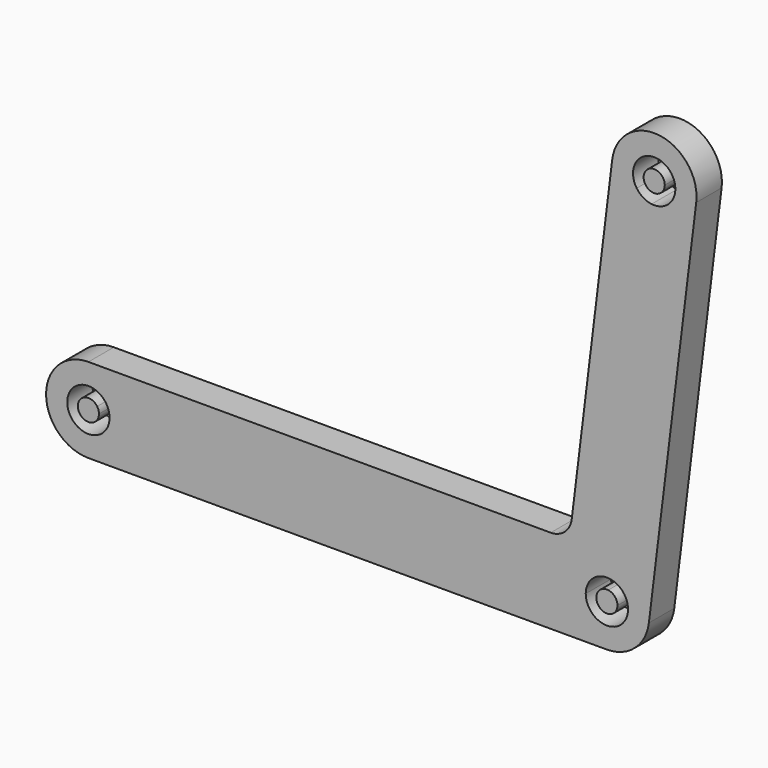
from build123d import *

# Parameters (mm, degrees)
F1_DEPTH = 76.2


with BuildPart() as f1:
    # F0 (on Front) → F1 (new body)
    with BuildSketch(Plane.XZ):
        with BuildLine():
            Line((1193.8, 0), (50.8, 0))
            ThreePointArc((50.8, 0), (-48.545929, -14.964383), (41.983749, 28.600783))
            Line((41.983749, 28.600783), (149.140982, 101.6))
            Line((149.140982, 101.6), (0, 101.6))
            ThreePointArc((0, 101.6), (-101.6, 0), (0, -101.6))
            Line((0, -101.6), (1244.6, -101.6))
            ThreePointArc((1244.6, -101.6), (1311.923426, -76.092814), (1345.443089, -12.378669))
            Line((1345.443089, -12.378669), (1459.017375, 912.856671))
            ThreePointArc((1459.017375, 912.856671), (1370.552954, 1026.078429), (1257.331197, 937.614009))
            Line((1257.331197, 937.614009), (1246.470734, 849.139013))
            Line((1246.470734, 849.139013), (1316.190537, 896.634557))
            ThreePointArc((1316.190537, 896.634557), (1343.209902, 973.781269), (1408.974286, 925.23534))
            ThreePointArc((1408.974286, 925.23534), (1391.835998, 887.188933), (1351.984951, 874.813795))
            Line((1351.984951, 874.813795), (1250.789334, 50.421544))
            ThreePointArc((1250.789334, 50.421544), (1282.646407, 33.661713), (1295.4, 0))
            ThreePointArc((1295.4, 0), (1244.6, -50.8), (1193.8, 0))
        make_face()
        with BuildLine():
            ThreePointArc((41.983749, 28.600783), (48.545929, 14.964383), (50.8, 0))
            Line((50.8, 0), (1193.8, 0))
            ThreePointArc((1193.8, 0), (1210.938287, 38.046407), (1250.789334, 50.421544))
            Line((1250.789334, 50.421544), (1351.984951, 874.813795))
            ThreePointArc((1351.984951, 874.813795), (1331.731935, 881.859746), (1316.190537, 896.634557))
            Line((1316.190537, 896.634557), (1246.470734, 849.139013))
            Line((1246.470734, 849.139013), (1160.185027, 146.210666))
            ThreePointArc((1160.185027, 146.210666), (1143.425196, 114.353593), (1109.763483, 101.6))
            Line((1109.763483, 101.6), (149.140982, 101.6))
            Line((149.140982, 101.6), (41.983749, 28.600783))
        make_face()
        with BuildLine():
            Line((25.4, 0), (0, 0))
            Line((0, 0), (20.991875, 14.300392))
            ThreePointArc((20.991875, 14.300392), (-24.272965, -7.482192), (25.4, 0))
        make_face()
        with BuildLine():
            Line((1244.6, 0), (1219.2, 0))
            ThreePointArc((1219.2, 0), (1244.6, -25.4), (1270, 0))
            ThreePointArc((1270, 0), (1263.623204, 16.830856), (1247.694667, 25.210772))
            Line((1247.694667, 25.210772), (1244.6, 0))
        make_face()
        with BuildLine():
            Line((1358.174286, 925.23534), (1355.079619, 900.024568))
            ThreePointArc((1355.079619, 900.024568), (1375.005142, 906.212136), (1383.574286, 925.23534))
            ThreePointArc((1383.574286, 925.23534), (1350.692094, 949.508304), (1337.182411, 910.934948))
            Line((1337.182411, 910.934948), (1358.174286, 925.23534))
        make_face()
        with BuildLine():
            ThreePointArc((1337.182411, 910.934948), (1344.95311, 903.547543), (1355.079619, 900.024568))
            Line((1355.079619, 900.024568), (1358.174286, 925.23534))
            Line((1358.174286, 925.23534), (1337.182411, 910.934948))
        make_face()
        with BuildLine():
            ThreePointArc((1247.694667, 25.210772), (1227.769144, 19.023204), (1219.2, 0))
            Line((1219.2, 0), (1244.6, 0))
            Line((1244.6, 0), (1247.694667, 25.210772))
        make_face()
        with BuildLine():
            Line((20.991875, 14.300392), (0, 0))
            Line((0, 0), (25.4, 0))
            ThreePointArc((25.4, 0), (24.272965, 7.482192), (20.991875, 14.300392))
        make_face()
    extrude(amount=F1_DEPTH)


solid = f1.part
